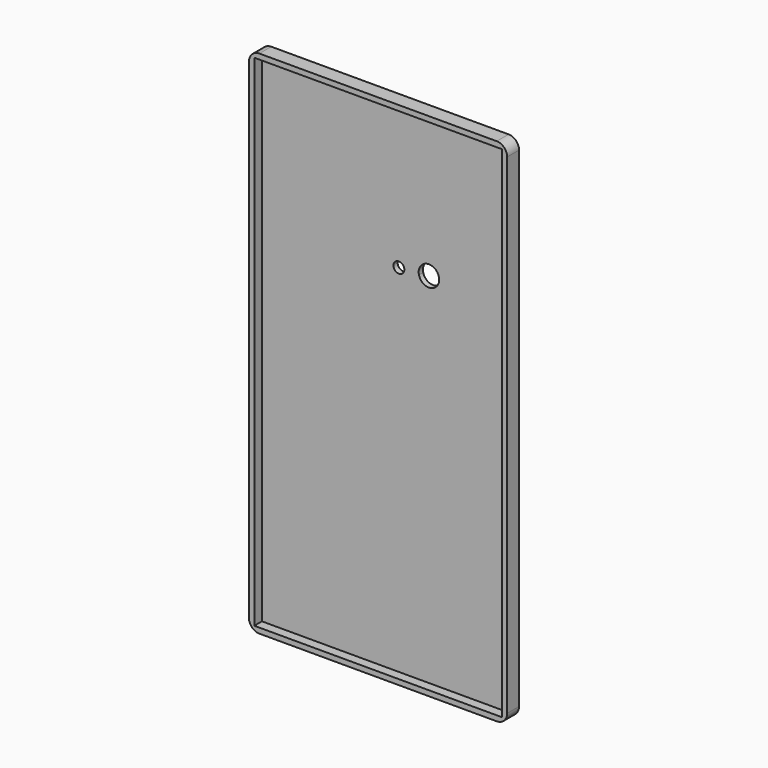
from build123d import *

# Parameters (mm, degrees)
F0_W     = 123.4
F0_H     = 244.057946
F1_DEPTH = 3.55
F2_T     = -2.54
F4_R     = 5
F3_R     = 2.602058
F5_DEPTH = 25


with BuildPart() as f1:
    # F0 (on Front) → F1 (new body, symmetric)
    with BuildSketch(Plane.XZ):
        Rectangle(F0_W, F0_H)
    extrude(amount=F1_DEPTH, both=True)

    # F2
    f2_openings = [f1.faces().sort_by_distance(p)[0] for p in [
        (0, -3.55, 0),
    ]]
    offset(amount=F2_T, openings=f2_openings)

    # F4
    f4_edges = [f1.edges().sort_by_distance(p)[0] for p in [
        (61.7, 0, 122.028973),
        (-61.7, 0, 122.028973),
        (-61.7, 0, -122.028973),
        (61.7, 0, -122.028973),
    ]]
    fillet(f4_edges, radius=F4_R)

    # F3 (on Front) → F5 (cut)
    with BuildSketch(Plane.XZ):
        with BuildLine():
            ThreePointArc((25.559906, 51.782791), (20.077513, 56.652751), (15.887922, 50.634407))
            ThreePointArc((15.887922, 50.634407), (21.233963, 46.91283), (25.559906, 51.782791))
        make_face()
        with Locations((6.310866, 50.634407)):
            Circle(F3_R)
    extrude(amount=-F5_DEPTH, mode=Mode.SUBTRACT)


solid = f1.part
